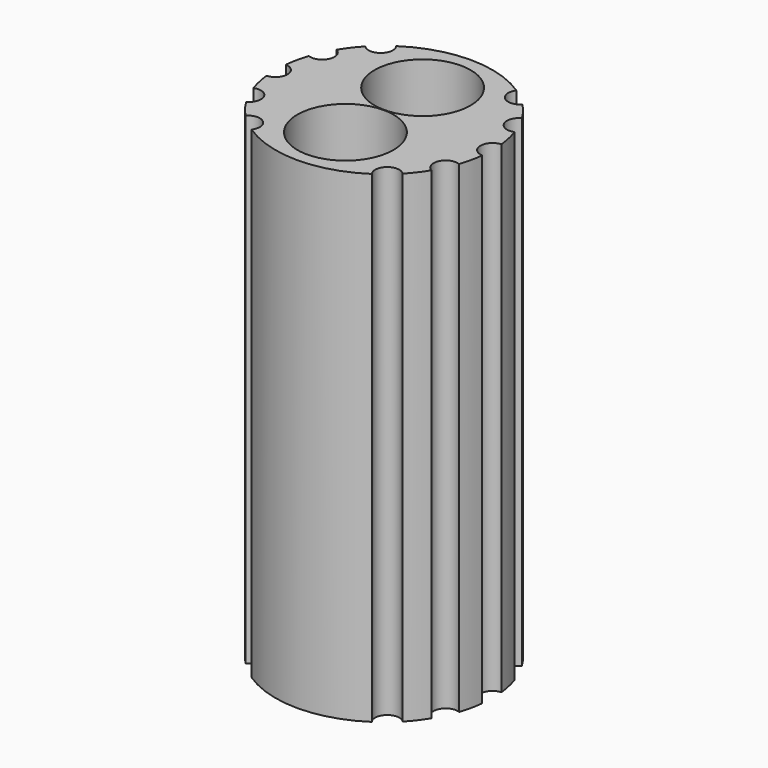
from build123d import *

# Parameters (mm, degrees)
F0_R     = 28.575
F0_R_2   = 12.6365
F1_DEPTH = 63.5
F4_DEPTH = 127


with BuildPart() as f1:
    # F0 (on Top) → F1 (new body, symmetric)
    with BuildSketch(Plane.XY):
        Circle(F0_R)
        with Locations((0, -12.7)):
            Circle(F0_R_2, mode=Mode.SUBTRACT)
        with Locations((0, 12.7)):
            Circle(F0_R_2, mode=Mode.SUBTRACT)
    extrude(amount=F1_DEPTH, both=True)

    # F3 (on offset) → F4 (cut)
    with BuildSketch(Plane.XY.offset(-63.5)):
        with BuildLine():
            ThreePointArc((15.8258405296, -23.792297), (18.3676559468, -21.8897199621), (20.6827101795, -19.716899468))
            ThreePointArc((20.6827101795, -19.716899468), (16.326805286, -19.4575288553), (15.8258405296, -23.792297))
        make_face()
        with BuildLine():
            ThreePointArc((24.3981417093, -14.8748548273), (25.8977450146, -12.0763168292), (27.0776230728, -9.1286884999))
            ThreePointArc((27.0776230728, -9.1286884999), (23.0202177907, -10.7345038482), (24.3981417093, -14.8748548273))
        make_face()
        with BuildLine():
            ThreePointArc((28.3986111111, -3.1700965222), (28.575, 0), (28.3986111111, 3.1700965222))
            ThreePointArc((28.3986111111, 3.1700965222), (25.4, 0), (28.3986111111, -3.1700965222))
        make_face()
        with BuildLine():
            ThreePointArc((27.0776230728, 9.1286884999), (25.8977450146, 12.0763168292), (24.3981417093, 14.8748548273))
            ThreePointArc((24.3981417093, 14.8748548273), (23.0202177907, 10.7345038482), (27.0776230728, 9.1286884999))
        make_face()
        with BuildLine():
            ThreePointArc((20.6827101795, 19.716899468), (18.3676559468, 21.8897199621), (15.8258405296, 23.792297))
            ThreePointArc((15.8258405296, 23.792297), (16.326805286, 19.4575288553), (20.6827101795, 19.716899468))
        make_face()
        with BuildLine():
            ThreePointArc((-20.6827101795, 19.716899468), (-16.326805286, 19.4575288553), (-15.8258405296, 23.792297))
            ThreePointArc((-15.8258405296, 23.792297), (-18.3676559468, 21.8897199621), (-20.6827101795, 19.716899468))
        make_face()
        with BuildLine():
            ThreePointArc((-27.0776230728, 9.1286884999), (-23.0202177907, 10.7345038482), (-24.3981417093, 14.8748548273))
            ThreePointArc((-24.3981417093, 14.8748548273), (-25.8977450146, 12.0763168292), (-27.0776230728, 9.1286884999))
        make_face()
        with BuildLine():
            ThreePointArc((-28.3986111111, -3.1700965222), (-25.4, 0), (-28.3986111111, 3.1700965222))
            ThreePointArc((-28.3986111111, 3.1700965222), (-28.575, 0), (-28.3986111111, -3.1700965222))
        make_face()
        with BuildLine():
            ThreePointArc((-24.3981417093, -14.8748548273), (-23.0202177907, -10.7345038482), (-27.0776230728, -9.1286884999))
            ThreePointArc((-27.0776230728, -9.1286884999), (-25.8977450146, -12.0763168292), (-24.3981417093, -14.8748548273))
        make_face()
        with BuildLine():
            ThreePointArc((-15.8258405296, -23.792297), (-16.326805286, -19.4575288553), (-20.6827101795, -19.716899468))
            ThreePointArc((-20.6827101795, -19.716899468), (-18.3676559468, -21.8897199621), (-15.8258405296, -23.792297))
        make_face()
    extrude(amount=F4_DEPTH, mode=Mode.SUBTRACT)


solid = f1.part
